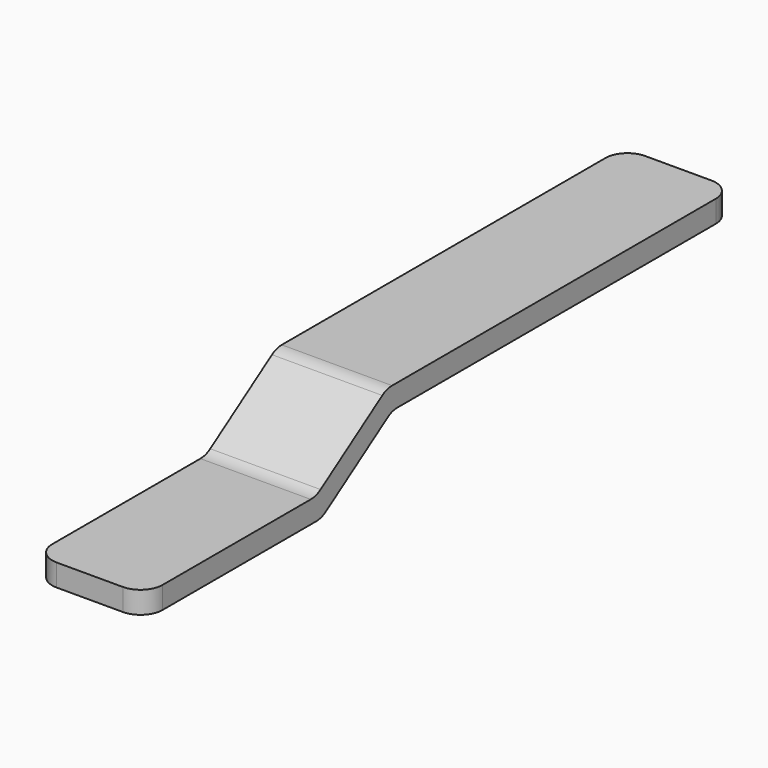
from build123d import *

# Parameters (mm, degrees)
F1_DEPTH = 7.5
F2_R     = 3


with BuildPart() as f1:
    # F0 (on Right) → F1 (new body, symmetric)
    with BuildSketch(Plane.YZ):
        Polygon((0, 3), (0, 0), (30, 0), (42, 8), (100, 8), (100, 11), (41.091673, 11), (29.091673, 3), align=None)
    extrude(amount=F1_DEPTH, both=True)

    # F2
    f2_edges = [f1.edges().sort_by_distance(p)[0] for p in [
        (7.5, 0, 1.5),
        (-7.5, 0, 1.5),
        (0, 41.091673, 11),
        (0, 29.091673, 3),
        (0, 30, 0),
        (0, 42, 8),
        (7.5, 100, 9.5),
        (-7.5, 100, 9.5),
    ]]
    fillet(f2_edges, radius=F2_R)


solid = f1.part
